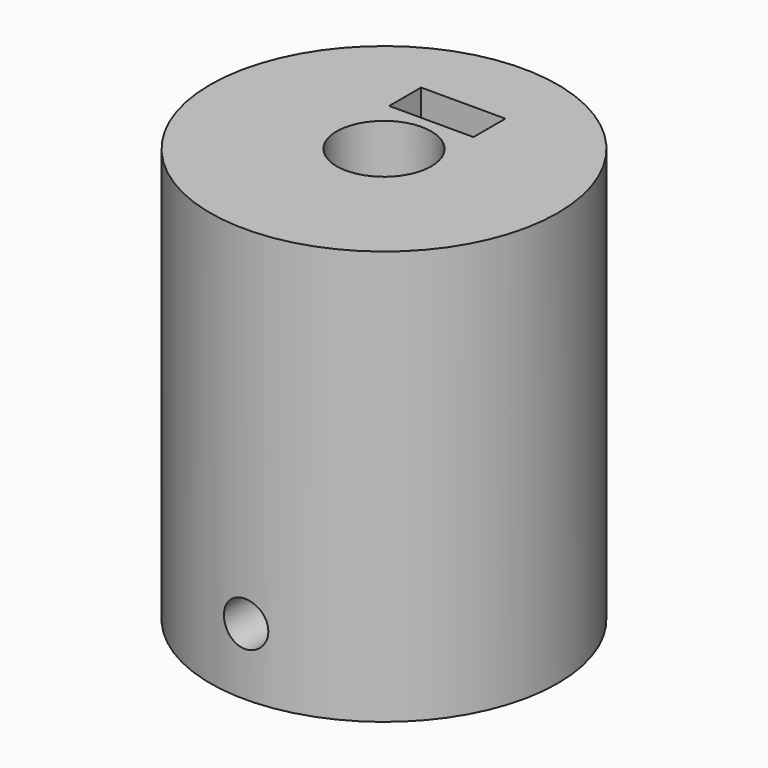
from build123d import *

# Parameters (mm, degrees)
F0_R      = 11.75
F3_DEPTH  = 28
F4_R      = 5.25
F5_DEPTH  = 14
F2_R      = 3.2
F6_DEPTH  = 14
F7_W      = 5.7
F7_H      = 2.7
F8_DEPTH  = 9
F9_W      = 5.7
F9_H      = 2.6
F10_DEPTH = 9
F11_R     = 1.5
F12_DEPTH = 25
F13_R     = 1.5
F14_DEPTH = 25


with BuildPart() as f3:
    # F0 (on Top) → F3 (new body)
    with BuildSketch(Plane.XY):
        Circle(F0_R)
    extrude(amount=F3_DEPTH)

    # F4 (on Top) → F5 (cut)
    with BuildSketch(Plane.XY):
        Circle(F4_R)
    extrude(amount=F5_DEPTH, mode=Mode.SUBTRACT)

    # F2 (on offset) → F6 (cut)
    with BuildSketch(Plane.XY.offset(28)):
        Circle(F2_R)
    extrude(amount=-F6_DEPTH, mode=Mode.SUBTRACT)

    # F7 (on offset) → F8 (cut)
    with BuildSketch(Plane.XY.offset(28)):
        with Locations((0, 5.35)):
            Rectangle(F7_W, F7_H)
    extrude(amount=-F8_DEPTH, mode=Mode.SUBTRACT)

    # F9 (on Top) → F10 (cut)
    with BuildSketch(Plane.XY):
        with Locations((0, -7.35)):
            Rectangle(F9_W, F9_H)
    extrude(amount=F10_DEPTH, mode=Mode.SUBTRACT)

    # F11 (on Front) → F12 (cut)
    with BuildSketch(Plane.XZ):
        with Locations((0, 4.5)):
            Circle(F11_R)
    extrude(amount=F12_DEPTH, mode=Mode.SUBTRACT)

    # F13 (on Front) → F14 (cut)
    with BuildSketch(Plane.XZ):
        with Locations((0, 23.5)):
            Circle(F13_R)
    extrude(amount=-F14_DEPTH, mode=Mode.SUBTRACT)


solid = f3.part
